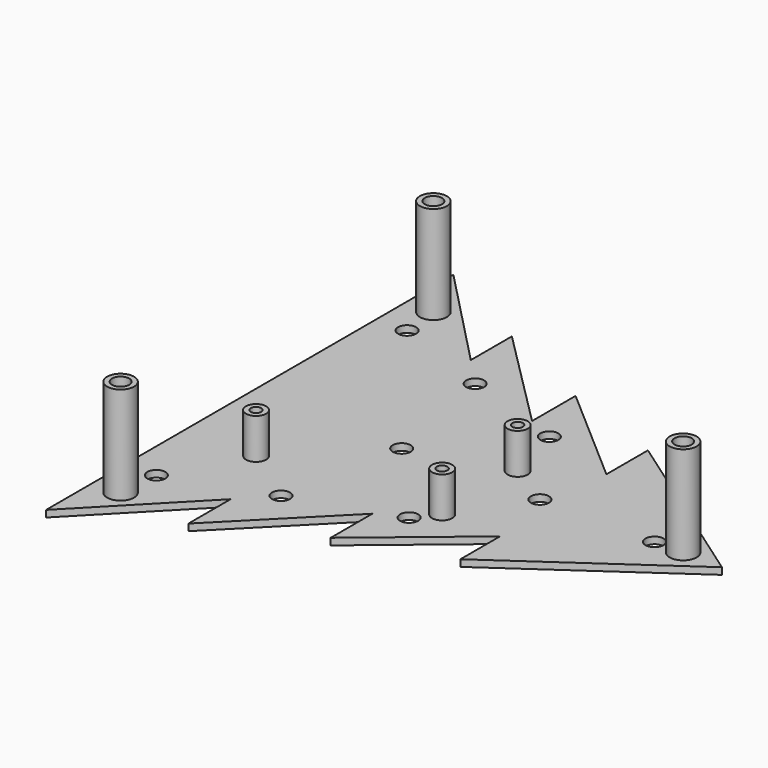
from build123d import *

# Parameters (mm, degrees)
CYLINDER020_R     = 2.55
CYLINDER020_DEPTH = 12
CYLINDER010_R     = 4
CYLINDER010_DEPTH = 31
CYLINDER019_R     = 2.55
CYLINDER019_DEPTH = 12
CYLINDER009_R     = 4
CYLINDER009_DEPTH = 31
CYLINDER018_R     = 2.55
CYLINDER018_DEPTH = 12
CYLINDER011_R     = 4
CYLINDER011_DEPTH = 31
CYLINDER015_R     = 1.55
CYLINDER015_DEPTH = 13
CYLINDER012_R     = 3
CYLINDER012_DEPTH = 13
CYLINDER017_R     = 1.55
CYLINDER017_DEPTH = 13
CYLINDER013_R     = 3
CYLINDER013_DEPTH = 13
CYLINDER008_R     = 2.67
CYLINDER008_DEPTH = 2
CYLINDER007_R     = 2.67
CYLINDER007_DEPTH = 2
CYLINDER006_R     = 2.67
CYLINDER006_DEPTH = 2
CYLINDER005_R     = 2.67
CYLINDER005_DEPTH = 2
CYLINDER004_R     = 2.67
CYLINDER004_DEPTH = 2
CYLINDER003_R     = 2.67
CYLINDER003_DEPTH = 2
CYLINDER002_R     = 2.67
CYLINDER002_DEPTH = 2
CYLINDER001_R     = 2.67
CYLINDER001_DEPTH = 2
CYLINDER_R        = 2.67
CYLINDER_DEPTH    = 3
PAD001_DEPTH      = 2
CYLINDER016_R     = 1.55
CYLINDER016_DEPTH = 13
CYLINDER014_R     = 3
CYLINDER014_DEPTH = 13


with BuildPart() as cylindre002:
    # Cylinder020 → Cylinder020 (new body)
    with BuildSketch(Plane(origin=(-121, 39, 20), x_dir=(1, 0, 0), z_dir=(0, 0, 1))):
        Circle(CYLINDER020_R)
    extrude(amount=CYLINDER020_DEPTH)


with BuildPart() as cut014:
    # Cylinder010 → Cylinder010 (new body)
    with BuildSketch(Plane(origin=(-121, 39, 0), x_dir=(1, 0, 0), z_dir=(0, 0, 1))):
        Circle(CYLINDER010_R)
    extrude(amount=CYLINDER010_DEPTH)

    # Cut014: cut Cylindre002
    add(cylindre002.part, mode=Mode.SUBTRACT)


with BuildPart() as cut014_1:
    # Cut014 placement: moved
    add(cut014.part.moved(Location((-1, 19, 0))))


with BuildPart() as cylindre001:
    # Cylinder019 → Cylinder019 (new body)
    with BuildSketch(Plane(origin=(-2, 0, 20), x_dir=(1, 0, 0), z_dir=(0, 0, 1))):
        Circle(CYLINDER019_R)
    extrude(amount=CYLINDER019_DEPTH)


with BuildPart() as cut013:
    # Cylinder009 → Cylinder009 (new body)
    with BuildSketch(Plane(origin=(-2, 0, 0), x_dir=(1, 0, 0), z_dir=(0, 0, 1))):
        Circle(CYLINDER009_R)
    extrude(amount=CYLINDER009_DEPTH)

    # Cut013: cut Cylindre001
    add(cylindre001.part, mode=Mode.SUBTRACT)


with BuildPart() as cut013_1:
    # Cut013 placement: moved
    add(cut013.part.moved(Location((0.5, 0, 0))))


with BuildPart() as cylindre:
    # Cylinder018 → Cylinder018 (new body)
    with BuildSketch(Plane(origin=(-121, -36, 20), x_dir=(1, 0, 0), z_dir=(0, 0, 1))):
        Circle(CYLINDER018_R)
    extrude(amount=CYLINDER018_DEPTH)


with BuildPart() as cut012:
    # Cylinder011 → Cylinder011 (new body)
    with BuildSketch(Plane(origin=(-121, -36, 0), x_dir=(1, 0, 0), z_dir=(0, 0, 1))):
        Circle(CYLINDER011_R)
    extrude(amount=CYLINDER011_DEPTH)

    # Cut012: cut Cylindre
    add(cylindre.part, mode=Mode.SUBTRACT)


with BuildPart() as cut012_1:
    # Cut012 placement: moved
    add(cut012.part.moved(Location((-1, -22, 0))))


with BuildPart() as arduino_bint:
    # Cylinder015 → Cylinder015 (new body)
    with BuildSketch(Plane(origin=(0, -140, 0), x_dir=(1, 0, 0), z_dir=(0, 0, 1))):
        Circle(CYLINDER015_R)
    extrude(amount=CYLINDER015_DEPTH)


with BuildPart() as arduino_bas:
    # Cylinder012 → Cylinder012 (new body)
    with BuildSketch(Plane(origin=(0, -140, 0), x_dir=(1, 0, 0), z_dir=(0, 0, 1))):
        Circle(CYLINDER012_R)
    extrude(amount=CYLINDER012_DEPTH)

    # Cut: cut Arduino_Bint
    add(arduino_bint.part, mode=Mode.SUBTRACT)


with BuildPart() as arduino_bas_1:
    # Cut placement: moved
    add(arduino_bas.part.moved(Location((-109, 116, 1))))


with BuildPart() as obj1:
    # Cylinder017 → Cylinder017 (new body)
    with BuildSketch(Plane(origin=(0, -140, 0), x_dir=(1, 0, 0), z_dir=(0, 0, 1))):
        Circle(CYLINDER017_R)
    extrude(amount=CYLINDER017_DEPTH)


with BuildPart() as obj2:
    # Cylinder013 → Cylinder013 (new body)
    with BuildSketch(Plane(origin=(0, -140, 0), x_dir=(1, 0, 0), z_dir=(0, 0, 1))):
        Circle(CYLINDER013_R)
    extrude(amount=CYLINDER013_DEPTH)

    # Cut001: cut obj1
    add(obj1.part, mode=Mode.SUBTRACT)


with BuildPart() as obj2_1:
    # Cut001 placement: moved
    add(obj2.part.moved(Location((-57, 148, 1))))


with BuildPart() as obj3:
    # Cylinder008 → Cylinder008 (new body)
    with BuildSketch(Plane(origin=(-85, 0, 0), x_dir=(1, 0, 0), z_dir=(0, 0, 1))):
        Circle(CYLINDER008_R)
    extrude(amount=CYLINDER008_DEPTH)


with BuildPart() as obj4:
    # Cylinder007 → Cylinder007 (new body)
    with BuildSketch(Plane(origin=(-44, 0, 0), x_dir=(1, 0, 0), z_dir=(0, 0, 1))):
        Circle(CYLINDER007_R)
    extrude(amount=CYLINDER007_DEPTH)


with BuildPart() as obj5:
    # Cylinder006 → Cylinder006 (new body)
    with BuildSketch(Plane(origin=(-121, -46, 0), x_dir=(1, 0, 0), z_dir=(0, 0, 1))):
        Circle(CYLINDER006_R)
    extrude(amount=CYLINDER006_DEPTH)


with BuildPart() as obj6:
    # Cylinder005 → Cylinder005 (new body)
    with BuildSketch(Plane(origin=(-92, -36, 0), x_dir=(1, 0, 0), z_dir=(0, 0, 1))):
        Circle(CYLINDER005_R)
    extrude(amount=CYLINDER005_DEPTH)


with BuildPart() as obj7:
    # Cylinder004 → Cylinder004 (new body)
    with BuildSketch(Plane(origin=(-62, -26, 0), x_dir=(1, 0, 0), z_dir=(0, 0, 1))):
        Circle(CYLINDER004_R)
    extrude(amount=CYLINDER004_DEPTH)


with BuildPart() as obj8:
    # Cylinder003 → Cylinder003 (new body)
    with BuildSketch(Plane(origin=(-121, 47, 0), x_dir=(1, 0, 0), z_dir=(0, 0, 1))):
        Circle(CYLINDER003_R)
    extrude(amount=CYLINDER003_DEPTH)


with BuildPart() as obj9:
    # Cylinder002 → Cylinder002 (new body)
    with BuildSketch(Plane(origin=(-92, 36, 0), x_dir=(1, 0, 0), z_dir=(0, 0, 1))):
        Circle(CYLINDER002_R)
    extrude(amount=CYLINDER002_DEPTH)


with BuildPart() as obj10:
    # Cylinder001 → Cylinder001 (new body)
    with BuildSketch(Plane(origin=(-62, 26, 0), x_dir=(1, 0, 0), z_dir=(0, 0, 1))):
        Circle(CYLINDER001_R)
    extrude(amount=CYLINDER001_DEPTH)


with BuildPart() as led_haut:
    # Cylinder → Cylinder (new body)
    with BuildSketch(Plane(origin=(-10, 0, 0), x_dir=(1, 0, 0), z_dir=(0, 0, 1))):
        Circle(CYLINDER_R)
    extrude(amount=CYLINDER_DEPTH)


with BuildPart() as cut011:
    # Sketch → Pad001 (new body)
    with BuildSketch(Plane.XY):
        Polygon((-130.081082, 75.519378), (-130.081082, -75.526209), (-100.046493, -44.621067), (-100.046493, -60.2838), (-69.854797, -29.802717), (-69.854797, -45.272629), (-39.66638, -20.21052), (-39.66638, -34.900669), (10.150305, -0.184029), (-39.87487, 34.909859), (-39.87487, 19.507401), (-70.024222, 45.766594), (-70.024222, 29.628657), (-100.203184, 59.856933), (-100.203184, 44.62989), align=None)
    extrude(amount=PAD001_DEPTH)

    # Cut003: cut Led_haut
    add(led_haut.part, mode=Mode.SUBTRACT)

    # Cut004: cut obj10
    add(obj10.part, mode=Mode.SUBTRACT)

    # Cut005: cut obj9
    add(obj9.part, mode=Mode.SUBTRACT)

    # Cut006: cut obj8
    add(obj8.part, mode=Mode.SUBTRACT)

    # Cut007: cut obj7
    add(obj7.part, mode=Mode.SUBTRACT)

    # Cut008: cut obj6
    add(obj6.part, mode=Mode.SUBTRACT)

    # Cut009: cut obj5
    add(obj5.part, mode=Mode.SUBTRACT)

    # Cut010: cut obj4
    add(obj4.part, mode=Mode.SUBTRACT)

    # Cut011: cut obj3
    add(obj3.part, mode=Mode.SUBTRACT)


with BuildPart() as arduino_dint:
    # Cylinder016 → Cylinder016 (new body)
    with BuildSketch(Plane(origin=(0, -140, 0), x_dir=(1, 0, 0), z_dir=(0, 0, 1))):
        Circle(CYLINDER016_R)
    extrude(amount=CYLINDER016_DEPTH)


with BuildPart() as fusion006:
    # Cylinder014 → Cylinder014 (new body)
    with BuildSketch(Plane(origin=(0, -140, 0), x_dir=(1, 0, 0), z_dir=(0, 0, 1))):
        Circle(CYLINDER014_R)
    extrude(amount=CYLINDER014_DEPTH)

    # Cut002: cut Arduino_Dint
    add(arduino_dint.part, mode=Mode.SUBTRACT)


with BuildPart() as fusion006_1:
    # Cut002 placement: moved
    add(fusion006.part.moved(Location((-57, 120, 1))))

    # Fusion002: union Cut011
    add(cut011.part)

    # Fusion: union obj2
    add(obj2_1.part)

    # Fusion003: union Arduino_bas
    add(arduino_bas_1.part)

    # Fusion004: union Cut012
    add(cut012_1.part)

    # Fusion005: union Cut013
    add(cut013_1.part)

    # Fusion006: union Cut014
    add(cut014_1.part)


solid = fusion006_1.part
